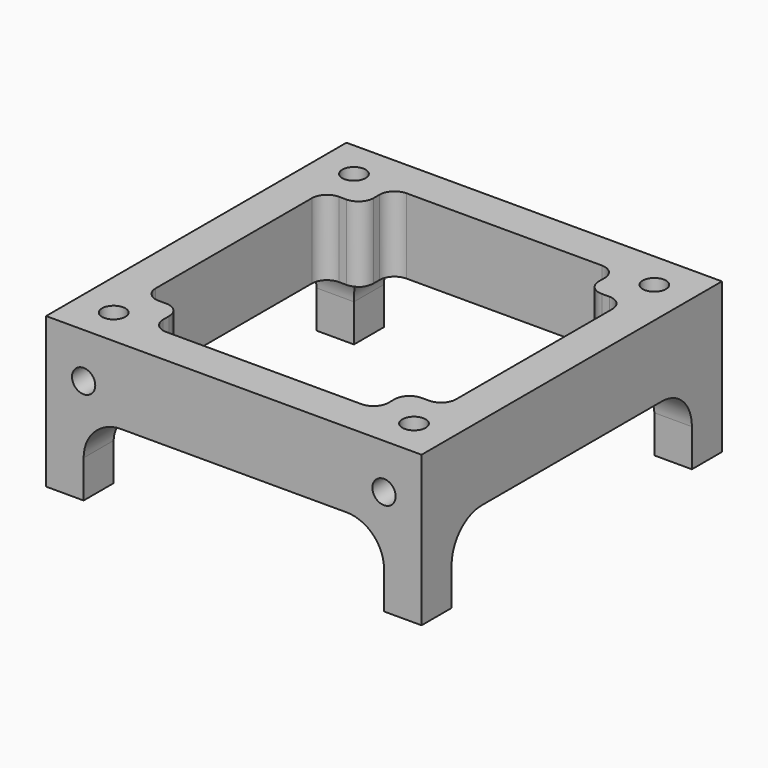
from build123d import *

# Parameters (mm, degrees)
SKETCH152_W     = 50
SKETCH152_H     = 50
PAD026_DEPTH    = 20
POCKET127_DEPTH = 20.001
POCKET128_DEPTH = 50.001
POCKET129_DEPTH = 50.001
SKETCH156_R     = 1.55
POCKET130_DEPTH = 5
SKETCH157_R     = 1.55
POCKET131_DEPTH = 3


with BuildPart() as part:
    # Sketch152 → Pad026 (new body)
    with BuildSketch(Plane.XY):
        Rectangle(SKETCH152_W, SKETCH152_H)
    extrude(amount=PAD026_DEPTH)

    # Sketch153 (on Face6 of Pad026) → Pocket127 (cut, through all)
    with BuildSketch(Plane.XY.offset(20)):
        with BuildLine():
            Line((-18, 15), (-17, 15))
            ThreePointArc((-17, 15), (-15.585786, 15.585786), (-15, 17))
            Line((-15, 17), (-15, 18))
            ThreePointArc((-13, 20), (-14.414214, 19.414214), (-15, 18))
            Line((-13, 20), (13, 20))
            ThreePointArc((15, 18), (14.414214, 19.414214), (13, 20))
            Line((15, 18), (15, 17))
            ThreePointArc((15, 17), (15.585786, 15.585786), (17, 15))
            Line((17, 15), (18, 15))
            ThreePointArc((20, 13), (19.414214, 14.414214), (18, 15))
            Line((20, 13), (20, -13))
            ThreePointArc((18, -15), (19.414214, -14.414214), (20, -13))
            Line((18, -15), (17, -15))
            ThreePointArc((17, -15), (15.585786, -15.585786), (15, -17))
            Line((15, -17), (15, -18))
            ThreePointArc((13, -20), (14.414214, -19.414214), (15, -18))
            Line((13, -20), (-13, -20))
            ThreePointArc((-15, -18), (-14.414214, -19.414214), (-13, -20))
            Line((-15, -18), (-15, -17))
            ThreePointArc((-15, -17), (-15.585786, -15.585786), (-17, -15))
            Line((-17, -15), (-18, -15))
            ThreePointArc((-20, -13), (-19.414214, -14.414214), (-18, -15))
            Line((-20, -13), (-20, 13))
            ThreePointArc((-18, 15), (-19.414214, 14.414214), (-20, 13))
        make_face()
    extrude(amount=-POCKET127_DEPTH, mode=Mode.SUBTRACT)

    # Sketch154 (on Face3 of Pocket127) → Pocket128 (cut, through all)
    with BuildSketch(Plane.YZ.offset(25)):
        with BuildLine():
            Line((-15, 10), (15, 10))
            ThreePointArc((20, 5), (18.535534, 8.535534), (15, 10))
            Line((20, 5), (20, 0))
            Line((20, 0), (-20, 0))
            Line((-20, 0), (-20, 5))
            ThreePointArc((-15, 10), (-18.535534, 8.535534), (-20, 5))
        make_face()
    extrude(amount=-POCKET128_DEPTH, mode=Mode.SUBTRACT)

    # Sketch155 (on Face6 of Pocket127) → Pocket129 (cut, through all)
    with BuildSketch(Plane.XZ.offset(25)):
        with BuildLine():
            Line((-15, 10), (15, 10))
            ThreePointArc((20, 5), (18.535534, 8.535534), (15, 10))
            Line((20, 5), (20, 0))
            Line((20, 0), (-20, 0))
            Line((-20, 0), (-20, 5))
            ThreePointArc((-15, 10), (-18.535534, 8.535534), (-20, 5))
        make_face()
    extrude(amount=-POCKET129_DEPTH, mode=Mode.SUBTRACT)

    # Sketch156 → Pocket130 (cut)
    with BuildSketch(Plane.XY.offset(20)):
        with Locations((-20, 20)):
            Circle(SKETCH156_R)
        with Locations((20, 20)):
            Circle(SKETCH156_R)
        with Locations((20, -20)):
            Circle(SKETCH156_R)
        with Locations((-20, -20)):
            Circle(SKETCH156_R)
    extrude(amount=-POCKET130_DEPTH, mode=Mode.SUBTRACT)

    # Sketch157 (on Face27 of Pocket130) → Pocket131 (cut)
    with BuildSketch(Plane.XZ.offset(25)):
        with Locations((-20, 14)):
            Circle(SKETCH157_R)
        with Locations((20, 14)):
            Circle(SKETCH157_R)
    extrude(amount=-POCKET131_DEPTH, mode=Mode.SUBTRACT)


with BuildPart() as part_1:
    # Body027 placement: moved
    add(part.part.moved(Location((85, 25, 0))))


solid = part_1.part
